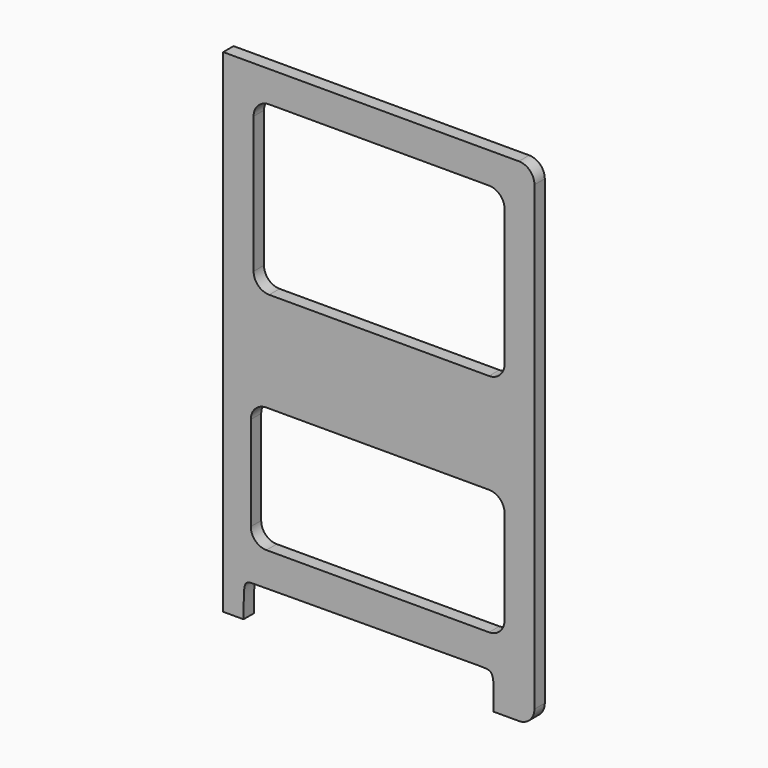
from build123d import *

# Parameters (mm, degrees)
F1_DEPTH = 25


with BuildPart() as f1:
    # F0 (on Front) → F1 (new body)
    with BuildSketch(Plane.XZ):
        with BuildLine():
            Line((199.387715532, 491.7654189531), (-370.612284468, 491.7654189531))
            Line((-370.612284468, 491.7654189531), (-370.612284468, -458.2345810469))
            Line((-370.612284468, -458.2345810469), (-331.4831441196, -458.2345810469))
            add(Edge.make_bspline(
                [(-331.4831441196, -458.2345810469), (-330.0051689148, -391.3593888283), (-345.8326361505, -391.7320973288), (160.8952583484, -388.8964468177), (150.8141399079, -389.2773693169), (150.8141399079, -458.2345810469)],
                knots=[0, 0, 0, 0, 0.2245869971, 0.7710046509, 1, 1, 1, 1], degree=3))
            Line((150.8141399079, -458.2345810469), (199.387715532, -458.2345810469))
            ThreePointArc((199.387715532, -458.2345810469), (220.6009189676, -449.4477844825), (229.387715532, -428.2345810469))
            Line((229.387715532, -428.2345810469), (229.387715532, 461.7654189531))
            ThreePointArc((229.387715532, 461.7654189531), (220.6009189676, 482.9786223887), (199.387715532, 491.7654189531))
        make_face()
        with BuildLine():
            ThreePointArc((-317.3689544201, -114.4802111387), (-308.5821578557, -93.2670077031), (-287.3689544201, -84.4802111387))
            Line((-287.3689544201, -84.4802111387), (141.8325316906, -84.4802111387))
            ThreePointArc((141.8325316906, -84.4802111387), (163.0457351262, -93.2670077031), (171.8325316906, -114.4802111387))
            Line((171.8325316906, -114.4802111387), (171.8325316906, -296.3732194901))
            ThreePointArc((171.8325316906, -296.3732194901), (163.0457351262, -317.5864229256), (141.8325316906, -326.3732194901))
            Line((141.8325316906, -326.3732194901), (-287.3689544201, -326.3732194901))
            ThreePointArc((-287.3689544201, -326.3732194901), (-308.5821578557, -317.5864229256), (-317.3689544201, -296.3732194901))
            Line((-317.3689544201, -296.3732194901), (-317.3689544201, -114.4802111387))
        make_face(mode=Mode.SUBTRACT)
        with BuildLine():
            ThreePointArc((-311.9534254074, 401.7988455296), (-303.166628843, 423.0120489652), (-281.9534254074, 431.7988455296))
            Line((-281.9534254074, 431.7988455296), (141.8325316906, 431.7988455296))
            ThreePointArc((141.8325316906, 431.7988455296), (163.0457351262, 423.0120489652), (171.8325316906, 401.7988455296))
            Line((171.8325316906, 401.7988455296), (171.8325316906, 138.6731404066))
            ThreePointArc((171.8325316906, 138.6731404066), (163.0457351262, 117.459936971), (141.8325316906, 108.6731404066))
            Line((141.8325316906, 108.6731404066), (-281.9534254074, 108.6731404066))
            ThreePointArc((-281.9534254074, 108.6731404066), (-303.166628843, 117.459936971), (-311.9534254074, 138.6731404066))
            Line((-311.9534254074, 138.6731404066), (-311.9534254074, 401.7988455296))
        make_face(mode=Mode.SUBTRACT)
    extrude(amount=F1_DEPTH)


solid = f1.part
